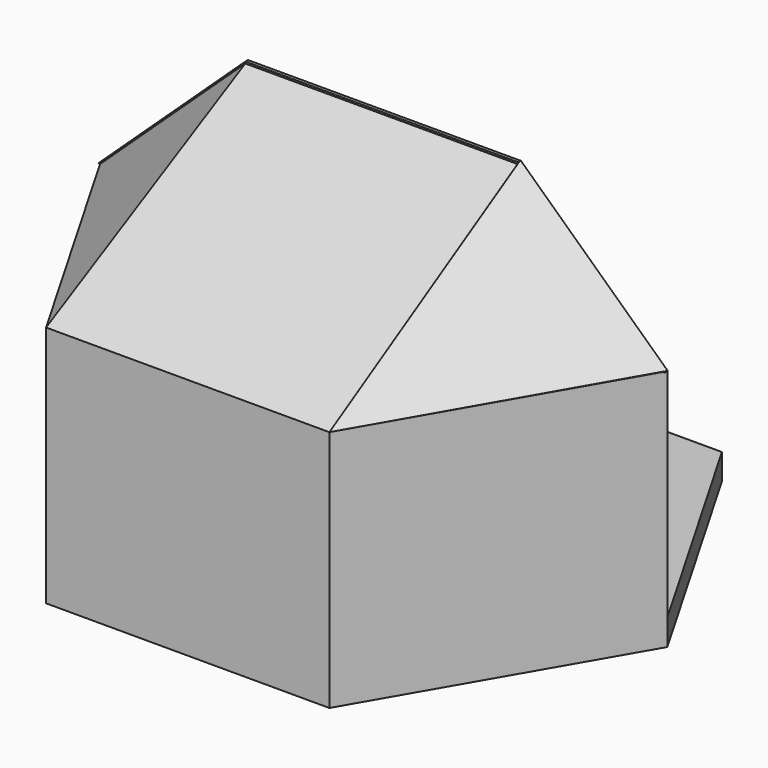
from build123d import *

# Parameters (mm, degrees)
F0_W      = 50
F0_H      = 12.5
F1_DEPTH  = 8
F2_DEPTH  = 75
F4_DEPTH  = 8
F7_DEPTH  = 3
F8_DEPTH  = 1
F11_DEPTH = 3
F14_DEPTH = 3
F15_DEPTH = 8
F16_DEPTH = 25


with BuildPart() as f1:
    # F0 (on Top) → F1 (new body)
    with BuildSketch(Plane.XY):
        Polygon((-42.017949, 72.777223), (-84.035898, 0), (-42.017949, -72.777223), (42.017949, -72.777223), (84.035898, 0), (42.017949, 72.777223), align=None)
        Polygon((25.132911, -40.832917), (25, -48.332917), (25, -60.832917), (-25, -60.832917), (-25, -48.332917), (-25, -40.832917), (-12.5, -40.832917), (-12.5, -30.832917), (12.566456, -30.832917), (12.566456, -40.832917), align=None, mode=Mode.SUBTRACT)
        with Locations((0, 54.582917)):
            Rectangle(F0_W, F0_H, mode=Mode.SUBTRACT)
    extrude(amount=F1_DEPTH)

    # F0 (on Top) → F2 (join)
    with BuildSketch(Plane.XY):
        Polygon((-84.035898, 0), (-87.5, 0), (-43.75, -75.777223), (43.75, -75.777223), (87.5, 0), (84.035898, 0), (42.017949, -72.777223), (-42.017949, -72.777223), align=None)
    extrude(amount=F2_DEPTH)

    # F0 (on Top) → F4 (join)
    with BuildSketch(Plane.XY):
        Polygon((43.75, 75.777223), (-43.75, 75.777223), (-87.5, 0), (-84.035898, 0), (-42.017949, 72.777223), (42.017949, 72.777223), (84.035898, 0), (87.5, 0), align=None)
    extrude(amount=F4_DEPTH)

    # F6 (on face) → F7 (join)
    with BuildSketch(Plane(origin=(0, -50.131237, 89.383668), x_dir=(1, 0, 0), z_dir=(0, 0.489171, -0.872188))):
        Polygon((43.75, 29.404192), (0, 29.404192), (-43.75, 29.404192), (-42.01795, -57.477552), (42.01795, -57.477552), align=None)
    extrude(amount=F7_DEPTH)

    # F3 (on Front) → F8 (join)
    with BuildSketch(Plane.XZ):
        Polygon((-42.01795, 114.5), (0, 114.5), (42.01795, 114.5), (84.0359, 75), (87.5, 75), (42.01795, 117.5), (0, 117.5), (-42.01795, 117.5), (-87.5, 75), (-84.0359, 75), align=None)
    extrude(amount=F8_DEPTH)

    # F10 (on face) → F11 (join)
    with BuildSketch(Plane(origin=(-67.684673, -39.077764, 72.433827), x_dir=(0.772363, -0.301588, 0.559017), z_dir=(-0.635181, -0.366722, 0.67975))):
        Polygon((33.231426, 55.789645), (-25.65546, 35.610412), (30.988892, -31.080422), align=None)
    extrude(amount=-F11_DEPTH)

    # F13 (on face) → F14 (join)
    with BuildSketch(Plane(origin=(67.675669, -39.595085, 72.424192), x_dir=(0.773305, 0.304147, -0.556322), z_dir=(-0.634035, 0.370955, -0.678522))):
        Polygon((-30.93951, 30.511739), (-32.875165, -56.364915), (25.940007, -35.977606), align=None)
    extrude(amount=F14_DEPTH)

    # F0 (on Top) → F15 (join)
    with BuildSketch(Plane.XY):
        with Locations((0, 54.582917)):
            Rectangle(F0_W, F0_H)
    extrude(amount=F15_DEPTH)

    # F0 (on Top) → F16 (cut)
    with BuildSketch(Plane.XY):
        Polygon((25, -60.832917), (25, -48.332917), (25.132911, -40.832917), (12.566456, -40.832917), (0, -40.832917), (-12.5, -40.832917), (-25, -40.832917), (-25, -48.332917), (-25, -60.832917), align=None)
    extrude(amount=-F16_DEPTH, mode=Mode.SUBTRACT)


solid = f1.part
